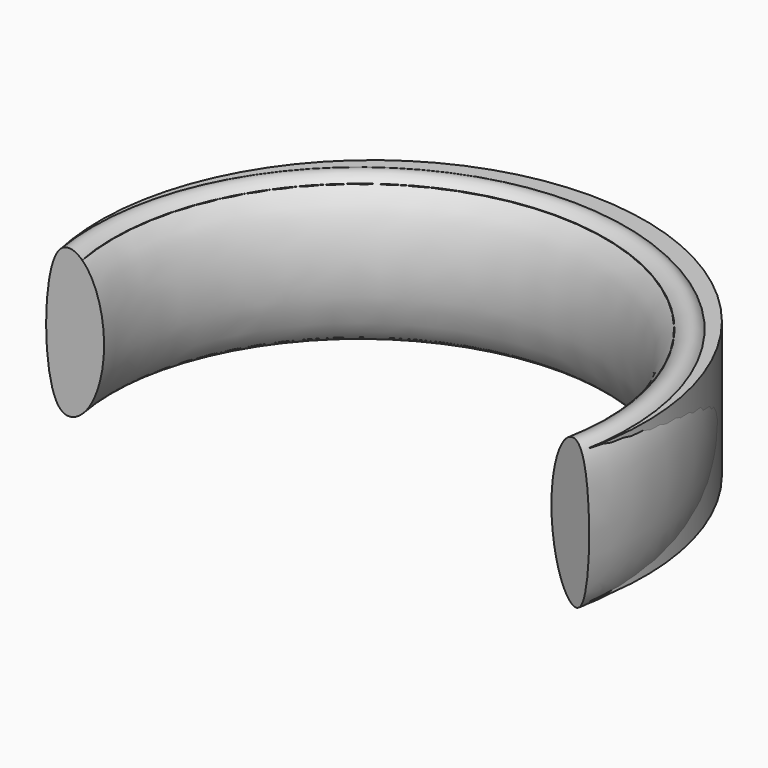
from build123d import *

# Parameters (mm, degrees)
F1_DEPTH = 35.56


with BuildPart() as f1:
    # F0 (on Top) → F1 (new body)
    with BuildSketch(Plane.XY):
        with BuildLine():
            ThreePointArc((-63.5, 0), (0, 76.2), (63.5, 0))
            Line((63.5, 0), (69.85, 0))
            ThreePointArc((69.85, 0), (0, 87.63), (-69.85, 0))
            Line((-69.85, 0), (-63.5, 0))
        make_face()
    extrude(amount=F1_DEPTH)


with BuildPart() as f3:
    # F3: sweep along a path in F3_path
    with BuildLine(Plane(origin=(-63.5, 0, 35.56), x_dir=(0, 1, 0), z_dir=(0, 0, 1))) as f3_path:
        ThreePointArc((0, 0), (76.2, -63.5), (0, -127))
    # F2 (on Front) → F3 (sweep)
    with BuildSketch(Plane.XZ):
        with BuildLine():
            add(Edge.make_bspline(
                [(-69.85, 35.56), (-68.08087259, 38.0947278809), (-61.2468328543, 36.4602466947), (-55.5407393381, 17.78), (-61.2468328543, -0.9002466947), (-74.0365195616, -3.9591259387), (-74.0365195616, 29.5617390514), (-69.85, 35.56)],
                knots=[0, 0, 0, 0, 0.1282488418, 0.3482539239, 0.568259006, 0.6965078478, 1, 1, 1, 1], degree=3))
        make_face()
    sweep(path=f3_path.line)


solid = Compound([f1.part, f3.part])
